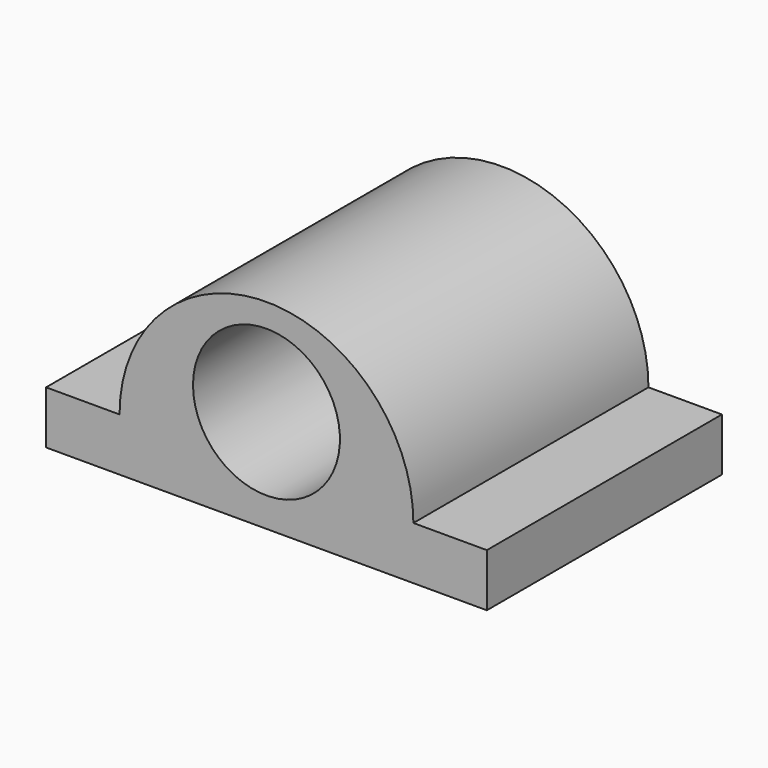
from build123d import *

# Parameters (mm, degrees)
F0_W     = 76.2
F0_H     = 9.1570811439
F1_DEPTH = 50.8
F3_DEPTH = 50.8
F5_D     = 25.4


with BuildPart() as f1:
    # F0 (on Front) → F1 (new body)
    with BuildSketch(Plane.XZ):
        with Locations((7.8489261553, 4.578540572)):
            Rectangle(F0_W, F0_H)
    extrude(amount=F1_DEPTH)

    # F2 (on face) → F3 (join)
    with BuildSketch(Plane.XZ.offset(50.8)):
        with BuildLine():
            Line((-17.5510738447, 9.1570811439), (33.2489261553, 9.1570811439))
            ThreePointArc((33.2489261553, 9.1570811439), (7.8489261553, 34.5570811439), (-17.5510738447, 9.1570811439))
        make_face()
    extrude(amount=-F3_DEPTH)

    # F5 (through all)
    with Locations(Plane.XZ.offset(50.8)):
        with Locations((7.8489261553, 17.78)):
            Hole(F5_D / 2)


solid = f1.part
